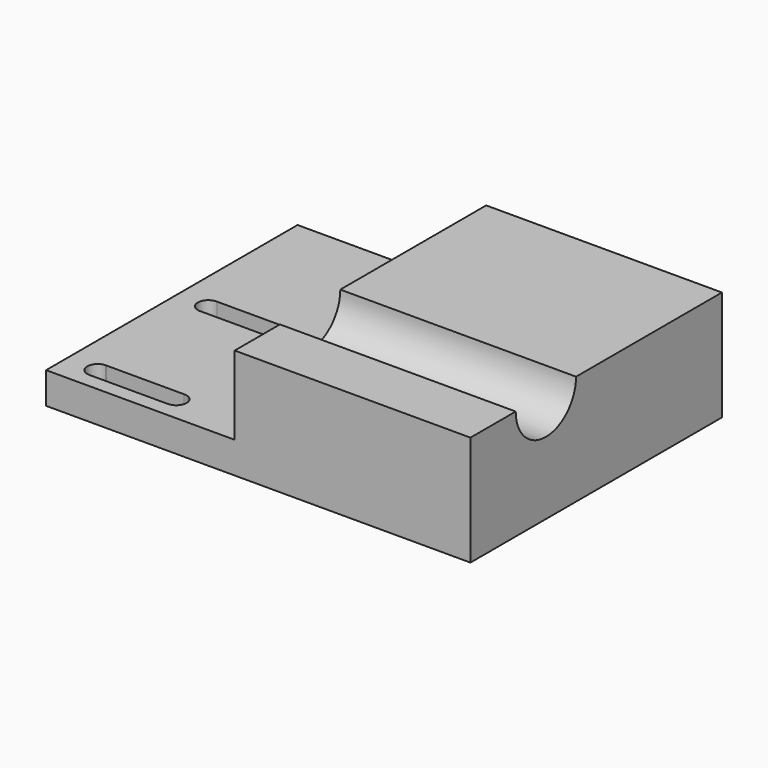
from build123d import *

# Parameters (mm, degrees)
F0_W     = 60
F0_H     = 50
F1_DEPTH = 5
F2_W     = 37.5
F2_H     = 50
F3_DEPTH = 30
F4_R     = 6
F5_DEPTH = 37.5
F6_W     = 37.5
F6_H     = 50
F7_DEPTH = 12.5


with BuildPart() as f1:
    # F0 (on Top) → F1 (new body)
    with BuildSketch(Plane.XY):
        Rectangle(F0_W, F0_H)
        with BuildLine():
            Line((-22.5574357373, -19.3509999587), (-12.5574357373, -19.3509999587))
            ThreePointArc((-12.5574357373, -19.3509999587), (-10.85, -21), (-12.5574357373, -22.6490000413))
            Line((-12.5574357373, -22.6490000413), (-22.5574357373, -22.6490000413))
            Line((-22.5574357373, -22.6490000413), (-24.9425642627, -22.6490000413))
            ThreePointArc((-24.9425642627, -22.6490000413), (-26.6490000413, -21.0574357373), (-25.0574357373, -19.3509999587))
            ThreePointArc((-25.0574357373, -19.3509999587), (-25, -19.35), (-24.9425642627, -19.3509999587))
            Line((-24.9425642627, -19.3509999587), (-22.5574357373, -19.3509999587))
        make_face(mode=Mode.SUBTRACT)
        with BuildLine():
            ThreePointArc((-12.4425642627, -0.6490000413), (-12.5, -0.65), (-12.5574357373, -0.6490000413))
            Line((-12.5574357373, -0.6490000413), (-24.9425642627, -0.6490000413))
            ThreePointArc((-24.9425642627, -0.6490000413), (-25, -0.65), (-25.0574357373, -0.6490000413))
            ThreePointArc((-25.0574357373, -0.6490000413), (-26.6490000413, 1.0574357373), (-24.9425642627, 2.6490000413))
            Line((-24.9425642627, 2.6490000413), (-12.5574357373, 2.6490000413))
            ThreePointArc((-12.5574357373, 2.6490000413), (-12.5, 2.65), (-12.4425642627, 2.6490000413))
            ThreePointArc((-12.4425642627, 2.6490000413), (-10.85, 1), (-12.4425642627, -0.6490000413))
        make_face(mode=Mode.SUBTRACT)
    extrude(amount=F1_DEPTH)

    # F2 (on Top) → F3 (join)
    with BuildSketch(Plane.XY):
        with Locations((18.75, 0)):
            Rectangle(F2_W, F2_H)
    extrude(amount=F3_DEPTH)

    # F4 (on face) → F5 (cut, through all)
    with BuildSketch(Plane.YZ.offset(37.5)):
        with Locations((-10, 17.5)):
            Circle(F4_R)
    extrude(amount=-F5_DEPTH, mode=Mode.SUBTRACT)

    # F6 (on face) → F7 (cut)
    with BuildSketch(Plane.XY.offset(30)):
        with Locations((18.75, 0)):
            Rectangle(F6_W, F6_H)
    extrude(amount=-F7_DEPTH, mode=Mode.SUBTRACT)


solid = f1.part
